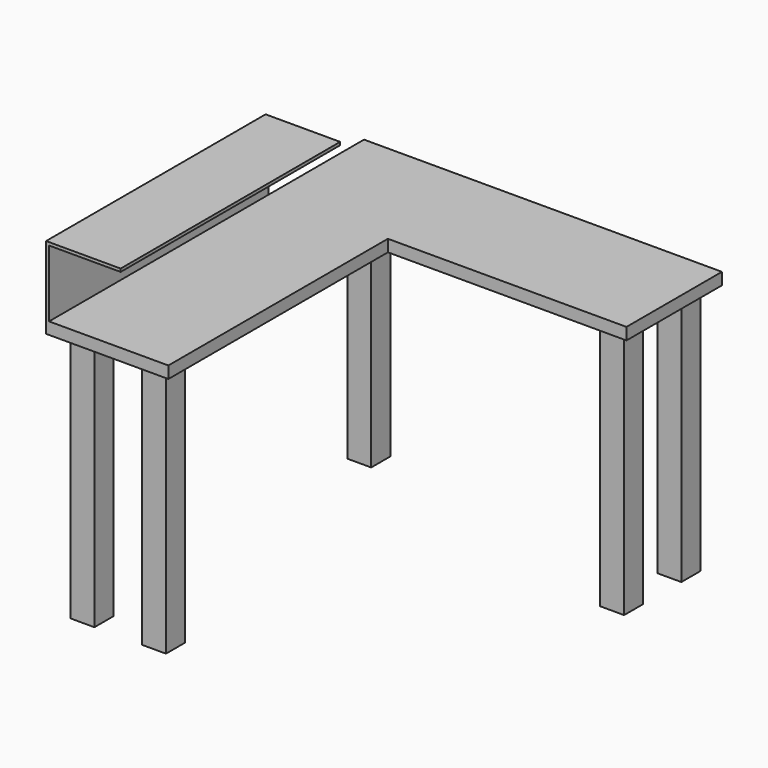
from build123d import *

# Parameters (mm, degrees)
F0_W     = 1016
F0_H     = 508
F1_DEPTH = 50.8
F2_W     = 101.6
F2_H     = 101.6
F3_DEPTH = 1066.8
F4_W     = 1168.4
F4_H     = 297.18
F4_H_2   = 50.8
F5_DEPTH = 12.7
F6_W     = 1168.4
F6_H     = 12.7
F7_DEPTH = 304.8


with BuildPart() as f1:
    # F0 (on Top) → F1 (new body)
    with BuildSketch(Plane.XY):
        Polygon((-508, 508), (-508, -1168.4), (0, -1168.4), (0, 0), (0, 508), align=None)
        with Locations((508, 254)):
            Rectangle(F0_W, F0_H)
    extrude(amount=-F1_DEPTH)

    # F2 (on face) → F3 (join)
    with BuildSketch(Plane(origin=(0, 0, -50.8), x_dir=(1, 0, 0), z_dir=(0, 0, -1))):
        with Locations((-101.6, 1066.8)):
            Rectangle(F2_W, F2_H)
        with Locations((-406.4, 1066.8)):
            Rectangle(F2_W, F2_H)
        with Locations((-406.4, -406.4)):
            Rectangle(F2_W, F2_H)
        with Locations((914.4, -101.6)):
            Rectangle(F2_W, F2_H)
        with Locations((914.4, -406.4)):
            Rectangle(F2_W, F2_H)
    extrude(amount=F3_DEPTH)

    # F4 (on face) → F5 (join)
    with BuildSketch(Plane(origin=(-508, 0, 0), x_dir=(0, -1, 0), z_dir=(-1, 0, 0))):
        with Locations((584.2, 148.59)):
            Rectangle(F4_W, F4_H)
        with Locations((584.2, -25.4)):
            Rectangle(F4_W, F4_H_2)
    extrude(amount=F5_DEPTH)

    # F6 (on face) → F7 (join)
    with BuildSketch(Plane.YZ.offset(-508)):
        with Locations((-584.2, 290.83)):
            Rectangle(F6_W, F6_H)
    extrude(amount=F7_DEPTH)


solid = f1.part
